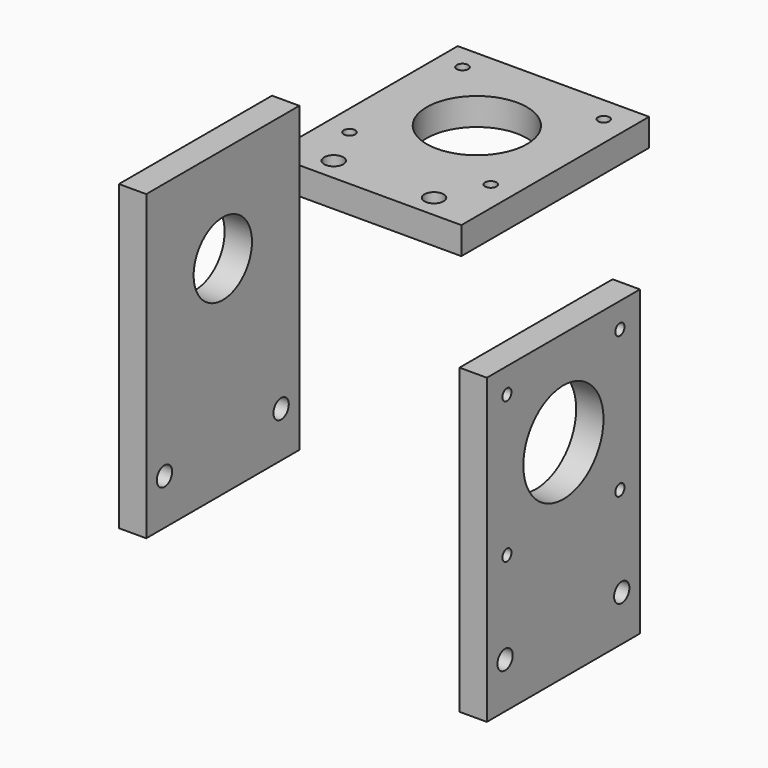
from build123d import *

# Parameters (mm, degrees)
F0_R     = 2
F0_R_2   = 11
F0_W     = 42
F0_H     = 20
F0_R_3   = 2.75
F0_H_2   = 4.5
F1_DEPTH = 6
F2_R     = 8
F2_W     = 42
F2_H     = 4.5
F2_H_2   = 20
F2_R_2   = 2.75
F3_DEPTH = 6
F4_D     = 2.5
F5_D     = 4.2
F6_D     = 4.2
F7_W     = 42
F7_H     = 42
F7_R     = 2
F7_R_2   = 11
F7_H_2   = 9.5
F8_DEPTH = 6
F9_D     = 2.5
F11_D    = 4.2


with BuildPart() as f1:
    # F0 (on Right) → F1 (new body)
    with BuildSketch(Plane.YZ):
        Polygon((21, 0), (21, 21), (-21, 21), (-21, 0), (-21, -21), (21, -21), align=None)
        with Locations((-15.5, -15.5)):
            Circle(F0_R, mode=Mode.SUBTRACT)
        with Locations((15.5, -15.5)):
            Circle(F0_R, mode=Mode.SUBTRACT)
        with Locations((-15.5, 15.5)):
            Circle(F0_R, mode=Mode.SUBTRACT)
        Circle(F0_R_2, mode=Mode.SUBTRACT)
        with Locations((15.5, 15.5)):
            Circle(F0_R, mode=Mode.SUBTRACT)
        with Locations((0, -35.5)):
            Rectangle(F0_W, F0_H)
        with Locations((-16, -35.5)):
            Circle(F0_R_3, mode=Mode.SUBTRACT)
        with Locations((16, -35.5)):
            Circle(F0_R_3, mode=Mode.SUBTRACT)
        with Locations((0, -23.25)):
            Rectangle(F0_W, F0_H_2)
        with Locations((-16, -35.5)):
            Circle(F0_R_3)
        with Locations((16, -35.5)):
            Circle(F0_R_3)
        with Locations((-15.5, 15.5)):
            Circle(F0_R)
        with Locations((15.5, 15.5)):
            Circle(F0_R)
        with Locations((15.5, -15.5)):
            Circle(F0_R)
        with Locations((-15.5, -15.5)):
            Circle(F0_R)
    extrude(amount=F1_DEPTH)

    # F4 (through all)
    with Locations(Plane(origin=(0, 0, 0), x_dir=(0, 1, 0), z_dir=(-1, 0, 0))):
        with Locations((-15.5, -15.5), (15.5, -15.5), (-15.5, 15.5), (15.5, 15.5)):
            Hole(F4_D / 2)

    # F5 (through all)
    with Locations(Plane(origin=(0, 0, 0), x_dir=(0, 1, 0), z_dir=(-1, 0, 0))):
        with Locations((-16, 35.5), (16, 35.5)):
            Hole(F5_D / 2)


with BuildPart() as f3:
    # F2 (on Right) → F3 (new body)
    with BuildSketch(Plane.YZ):
        Polygon((-72.4406324148, 73.458812958), (-72.4406324148, 94.458812958), (-114.4406324148, 94.458812958), (-114.4406324148, 73.458812958), (-114.4406324148, 52.458812958), (-72.4406324148, 52.458812958), align=None)
        with Locations((-93.4406324148, 73.458812958)):
            Circle(F2_R, mode=Mode.SUBTRACT)
        with Locations((-93.4406324148, 50.208812958)):
            Rectangle(F2_W, F2_H)
        with Locations((-93.4406324148, 37.958812958)):
            Rectangle(F2_W, F2_H_2)
        with Locations((-109.4406324148, 37.958812958)):
            Circle(F2_R_2, mode=Mode.SUBTRACT)
        with Locations((-77.4406324148, 37.958812958)):
            Circle(F2_R_2, mode=Mode.SUBTRACT)
        with Locations((-109.4406324148, 37.958812958)):
            Circle(F2_R_2)
        with Locations((-77.4406324148, 37.958812958)):
            Circle(F2_R_2)
    extrude(amount=F3_DEPTH)

    # F6 (through all)
    with Locations(Plane(origin=(0, 0, 0), x_dir=(0, 1, 0), z_dir=(-1, 0, 0))):
        with Locations((-109.4406324148, -37.958812958), (-77.4406324148, -37.958812958)):
            Hole(F6_D / 2)


with BuildPart() as f8:
    # F7 (on Top) → F8 (new body)
    with BuildSketch(Plane.XY):
        with Locations((-71.791592133, 73.494081974)):
            Rectangle(F7_W, F7_H)
        with Locations((-87.291592133, 57.9338646889)):
            Circle(F7_R, mode=Mode.SUBTRACT)
        with Locations((-56.291592133, 57.9338646889)):
            Circle(F7_R, mode=Mode.SUBTRACT)
        with Locations((-87.291592133, 88.9338646889)):
            Circle(F7_R, mode=Mode.SUBTRACT)
        with Locations((-71.791592133, 73.494081974)):
            Circle(F7_R_2, mode=Mode.SUBTRACT)
        with Locations((-56.291592133, 88.9338646889)):
            Circle(F7_R, mode=Mode.SUBTRACT)
        with Locations((-71.791592133, 47.744081974)):
            Rectangle(F7_W, F7_H_2)
        with Locations((-87.291592133, 88.9338646889)):
            Circle(F7_R)
        with Locations((-56.291592133, 88.9338646889)):
            Circle(F7_R)
        with Locations((-56.291592133, 57.9338646889)):
            Circle(F7_R)
        with Locations((-87.291592133, 57.9338646889)):
            Circle(F7_R)
    extrude(amount=F8_DEPTH)

    # F9 (through all)
    with Locations(Plane(origin=(0, 0, 0), x_dir=(1, 0, 0), z_dir=(0, 0, -1))):
        with Locations((-56.291592133, -88.9338646889), (-87.291592133, -88.9338646889), (-56.291592133, -57.9338646889), (-87.291592133, -57.9338646889)):
            Hole(F9_D / 2)

    # F11 (through all)
    with Locations(Plane(origin=(0, 0, 0), x_dir=(1, 0, 0), z_dir=(0, 0, -1))):
        with Locations((-60.791592133, -47.994081974), (-82.791592133, -47.994081974)):
            Hole(F11_D / 2)


solid = Compound([f1.part, f3.part, f8.part])
